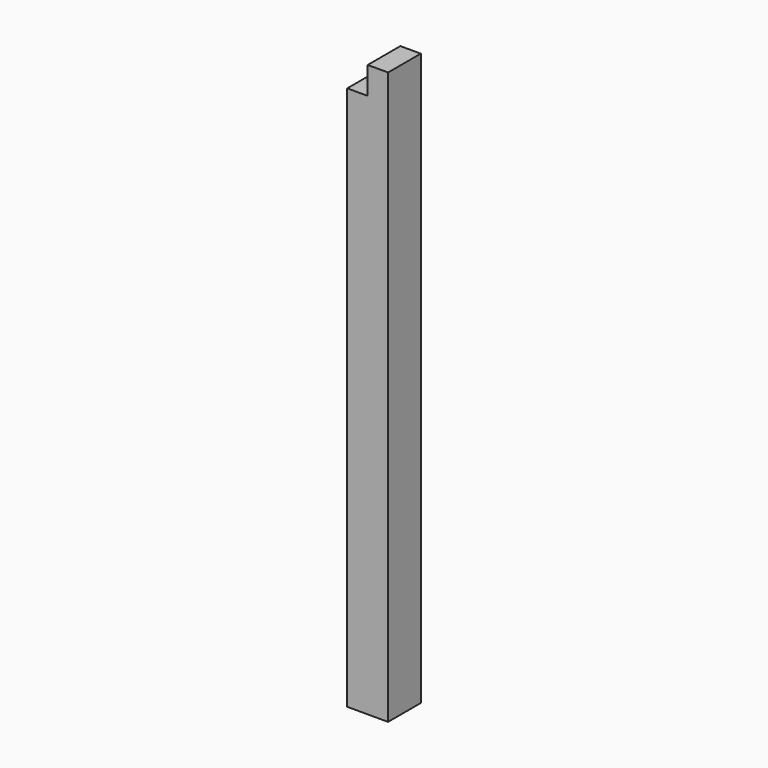
from build123d import *

# Parameters (mm, degrees)
F2_W     = 120
F2_H     = 120
F3_DEPTH = 1680
F4_W     = 60
F4_H     = 80
F5_DEPTH = 120


with BuildPart() as f3:
    # F2 (on Top) → F3 (new body)
    with BuildSketch(Plane.XY):
        Rectangle(F2_W, F2_H)
    extrude(amount=F3_DEPTH)

    # F4 (on face) → F5 (cut, through all)
    with BuildSketch(Plane.XZ.offset(60)):
        with Locations((-30, 1640)):
            Rectangle(F4_W, F4_H)
    extrude(amount=-F5_DEPTH, mode=Mode.SUBTRACT)


solid = f3.part
